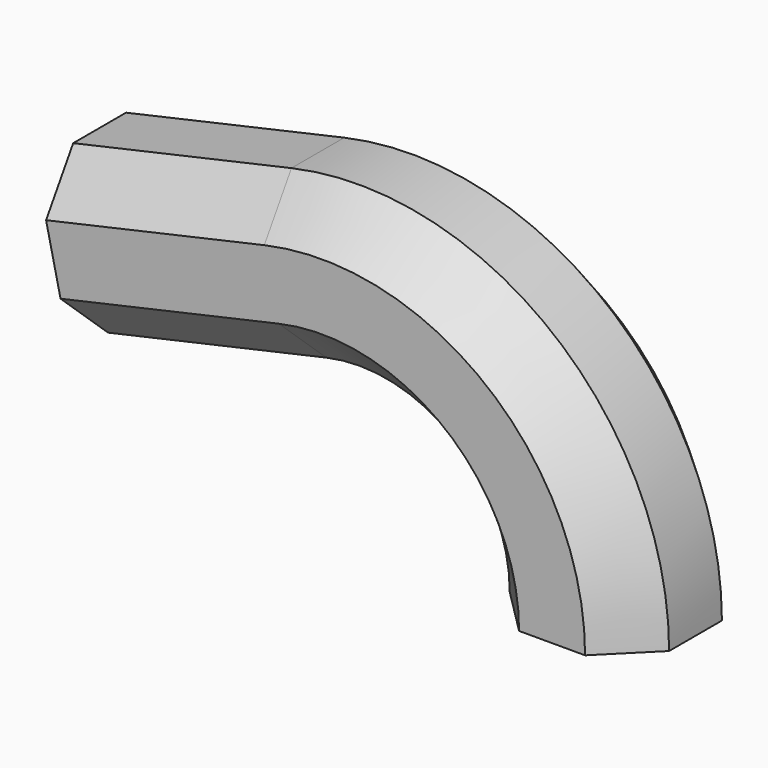
from build123d import *


with BuildPart() as f2:
    # F2: sweep along a path in F1
    with BuildLine(Plane.XZ) as f2_path:
        ThreePointArc((0, 0), (-16.6102428879, 34.5720025398), (-53.980376019, 43.2089393909))
        Line((-53.980376019, 43.2089393909), (-95.9730965218, 33.7851264332))
    # F0 (on Top) → F2 (sweep)
    with BuildSketch(Plane.XY):
        Polygon((6.35, 15.3302561211), (-6.35, 15.3302561211), (-15.3302561211, 6.35), (-15.3302561211, -6.35), (-6.35, -15.3302561211), (6.35, -15.3302561211), (15.3302561211, -6.35), (15.3302561211, 6.35), align=None)
    sweep(path=f2_path.line)


solid = f2.part
